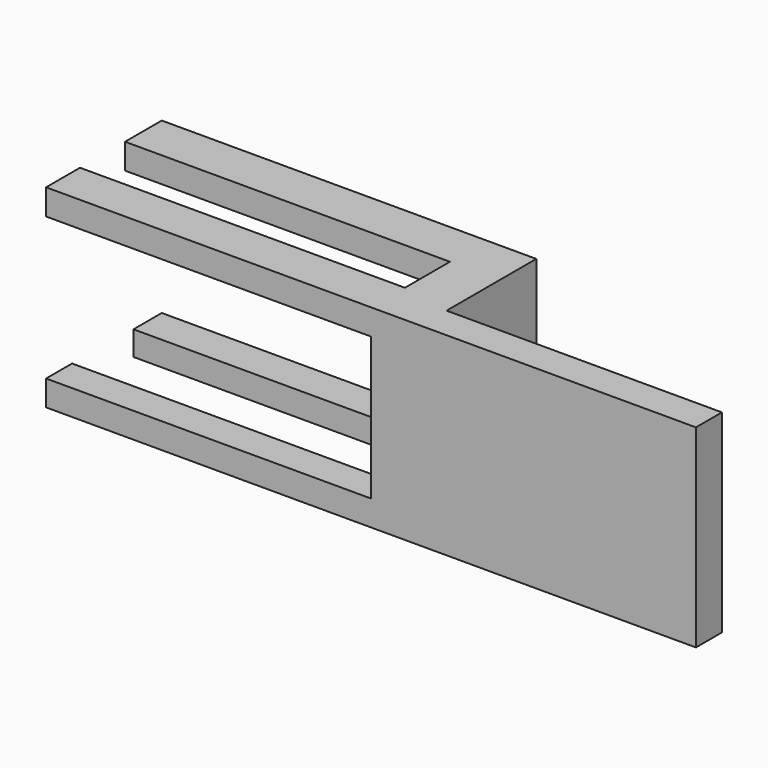
from build123d import *

# Parameters (mm, degrees)
F0_W     = 508
F0_H     = 302.9659508712
F1_DEPTH = 50.8
F2_W     = 77.5359706879
F2_H     = 302.9659508712
F3_DEPTH = 175.26
F4_W     = 71.7851296759
F4_H     = 39.8045896537
F4_W_2   = 50.8
F4_H_2   = 39.8045703769
F4_W_3   = 55.2871824002
F4_H_3   = 38.1124727428
F4_W_4   = 66.2858231544
F4_H_4   = 40.2276038176
F5_DEPTH = 508


with BuildPart() as f1:
    # F0 (on Front) → F1 (new body)
    with BuildSketch(Plane.XZ):
        with Locations((-254, 151.4829754356)):
            Rectangle(F0_W, F0_H)
    extrude(amount=F1_DEPTH)

    # F2 (on face) → F3 (join)
    with BuildSketch(Plane(origin=(0, 0, 0), x_dir=(-1, 0, 0), z_dir=(0, 1, 0))):
        with Locations((469.2320146561, 151.4829754356)):
            Rectangle(F2_W, F2_H)
    extrude(amount=F3_DEPTH)

    # F4 (on face) → F5 (join)
    with BuildSketch(Plane(origin=(-508, 0, 0), x_dir=(0, -1, 0), z_dir=(-1, 0, 0))):
        with Locations((-139.3674351621, 283.0636560443)):
            Rectangle(F4_W, F4_H)
        with Locations((25.4, 19.9022851884)):
            Rectangle(F4_W_2, F4_H_2)
        with Locations((-147.6164087999, 19.0562363714)):
            Rectangle(F4_W_3, F4_H_3)
        with Locations((17.6570884228, 282.8521489623)):
            Rectangle(F4_W_4, F4_H_4)
    extrude(amount=F5_DEPTH)


solid = f1.part
